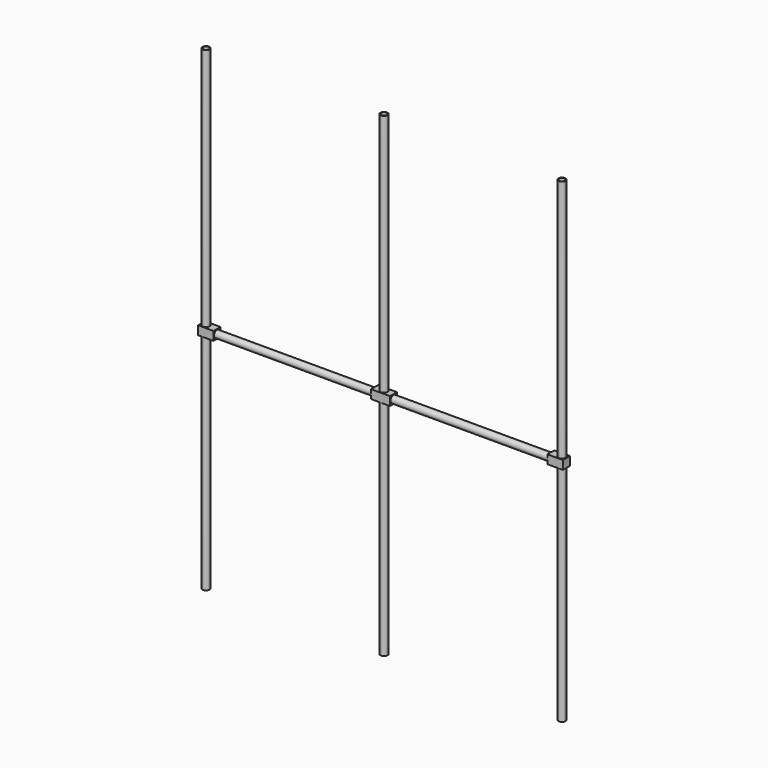
from build123d import *

# Parameters (mm, degrees)
F0_R          = 24
F0_R_2        = 20
F1_DEPTH      = 3260
F2_W          = 130
F2_H          = 60
F3_DEPTH      = 30
F3_DEPTH_BACK = 30
F2_W_2        = 105
F4_R          = 25
F5_DEPTH      = 60
F9_R          = 25
F10_DEPTH     = 41
F8_R          = 25
F11_DEPTH     = 41
F7_R          = 25
F12_DEPTH     = 41
F6_R          = 25
F13_DEPTH     = 41
F14_R         = 24
F15_DEPTH     = 1172
F16_DEPTH     = 1172
F17_T         = -4
F18_T         = -4


with BuildPart() as f1:
    # F0 (on Top) → F1 (new body)
    with BuildSketch(Plane.XY):
        Circle(F0_R)
        Circle(F0_R_2, mode=Mode.SUBTRACT)
    extrude(amount=F1_DEPTH)


with BuildPart() as f1b:
    # F0 (on Top) → F1, piece 2 (new body)
    with BuildSketch(Plane.XY):
        with Locations((-1220, 0)):
            Circle(F0_R)
        with Locations((-1220, 0)):
            Circle(F0_R_2, mode=Mode.SUBTRACT)
    extrude(amount=F1_DEPTH)


with BuildPart() as f1c:
    # F0 (on Top) → F1, piece 3 (new body)
    with BuildSketch(Plane.XY):
        with Locations((1220, 0)):
            Circle(F0_R)
        with Locations((1220, 0)):
            Circle(F0_R_2, mode=Mode.SUBTRACT)
    extrude(amount=F1_DEPTH)


with BuildPart() as f3:
    # F2 (on Front) → F3 (new body, two sides)
    with BuildSketch(Plane.XZ) as f3_sk:
        with Locations((0, 1560)):
            Rectangle(F2_W, F2_H)
    extrude(amount=F3_DEPTH)
    extrude(f3_sk.sketch, amount=-F3_DEPTH_BACK)

    # F9 (on face) → F10 (cut)
    with BuildSketch(Plane.YZ.offset(65)):
        with Locations((0, 1560)):
            Circle(F9_R)
    extrude(amount=-F10_DEPTH, mode=Mode.SUBTRACT)

    # F7 (on face) → F12 (cut)
    with BuildSketch(Plane(origin=(-65, 0, 0), x_dir=(0, -1, 0), z_dir=(-1, 0, 0))):
        with Locations((0, 1560)):
            Circle(F7_R)
    extrude(amount=-F12_DEPTH, mode=Mode.SUBTRACT)


with BuildPart() as f3b:
    # F2 (on Front) → F3, piece 2 (new body, two sides)
    with BuildSketch(Plane.XZ) as f3_2_sk:
        with Locations((-1197.5, 1560)):
            Rectangle(F2_W_2, F2_H)
    extrude(amount=F3_DEPTH)
    extrude(f3_2_sk.sketch, amount=-F3_DEPTH_BACK)


with BuildPart() as f3c:
    # F2 (on Front) → F3, piece 3 (new body, two sides)
    with BuildSketch(Plane.XZ) as f3_3_sk:
        with Locations((1197.5, 1560)):
            Rectangle(F2_W_2, F2_H)
    extrude(amount=F3_DEPTH)
    extrude(f3_3_sk.sketch, amount=-F3_DEPTH_BACK)


with BuildPart() as f5_tool:
    # F4 (on face) → F5 (new body)
    with BuildSketch(Plane.XY.offset(1590)):
        with Locations((-1220, 0)):
            Circle(F4_R)
        with Locations((1220, 0)):
            Circle(F4_R)
    extrude(amount=-F5_DEPTH)


with BuildPart() as f3b_1:
    add(f3b.part)

    # F5: cut by f5_tool
    add(f5_tool.part, mode=Mode.SUBTRACT)

    # F6 (on face) → F13 (cut)
    with BuildSketch(Plane.YZ.offset(-1145)):
        with Locations((0, 1560)):
            Circle(F6_R)
    extrude(amount=-F13_DEPTH, mode=Mode.SUBTRACT)


with BuildPart() as f3c_1:
    add(f3c.part)

    # F5: cut by f5_tool
    add(f5_tool.part, mode=Mode.SUBTRACT)

    # F8 (on face) → F11 (cut)
    with BuildSketch(Plane(origin=(1145, 0, 0), x_dir=(0, -1, 0), z_dir=(-1, 0, 0))):
        with Locations((0, 1560)):
            Circle(F8_R)
    extrude(amount=-F11_DEPTH, mode=Mode.SUBTRACT)


with BuildPart() as f15:
    # F14 (on face) → F15 (new body)
    with BuildSketch(Plane.YZ.offset(-1186)):
        with Locations((0, 1560)):
            Circle(F14_R)
    extrude(amount=F15_DEPTH)

    # F17
    f17_openings = [f15.faces().sort_by_distance(p)[0] for p in [
        (-14, 0, 1560),
    ]]
    offset(amount=F17_T, openings=f17_openings)


with BuildPart() as f16:
    # F16 (new): a face of the model
    f16_faces = [f3.part.faces().sort_by_distance(p)[0] for p in [
        (24, 0, 1560),
    ]]
    extrude(f16_faces, amount=F16_DEPTH)

    # F18
    f18_openings = [f16.faces().sort_by_distance(p)[0] for p in [
        (1196, 0, 1560),
    ]]
    offset(amount=F18_T, openings=f18_openings)


solid = Compound([f1.part, f1b.part, f1c.part, f3.part, f3b_1.part, f3c_1.part, f15.part, f16.part])
